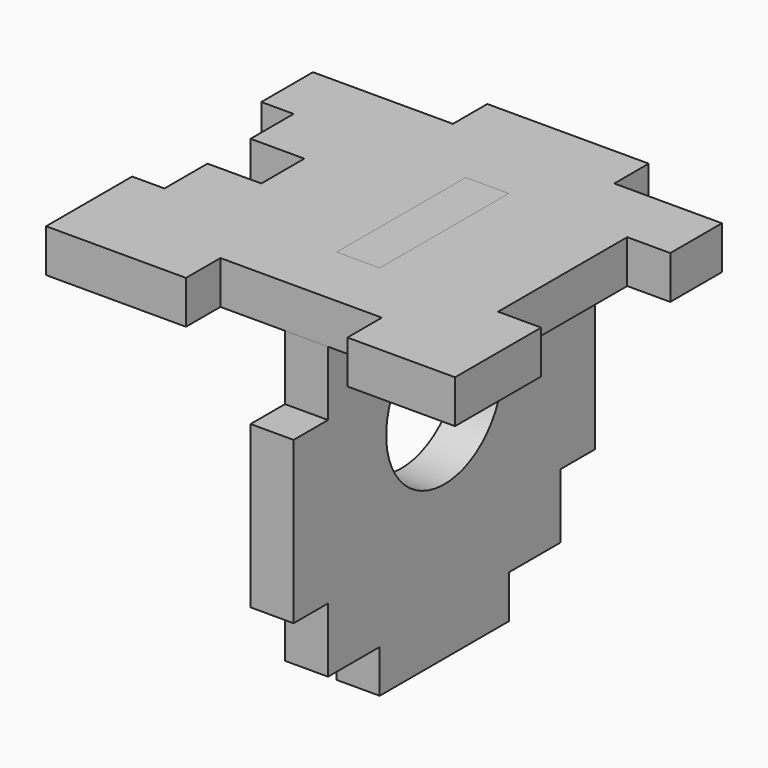
from build123d import *

# Parameters (mm, degrees)
PAD_DEPTH    = 4
SKETCH001_R  = 6.75
PAD001_DEPTH = 4


with BuildPart() as wall:
    # Sketch → Pad (new body)
    with BuildSketch(Plane.XY):
        Polygon((-19, 15.5), (-6, 15.5), (-6, 19.5), (9, 19.5), (9, 15.5), (19, 15.5), (19, 9.5), (15, 9.5), (15, -5.5), (19, -5.5), (19, -15.5), (9, -15.5), (9, -11.5), (-6, -11.5), (-6, -15.5), (-19, -15.5), (-19, -5.5), (-16, -5.5), (-16, -0.5), (-11, -0.5), (-11, 4.5), (-16, 4.5), (-16, 9.5), (-19, 9.5), align=None)
    extrude(amount=PAD_DEPTH)


with BuildPart() as cover:
    # Sketch001 → Pad001 (new body)
    with BuildSketch(Plane.YZ):
        Polygon((-5.5, 0), (-5.5, 4), (9.5, 4), (9.5, 0), (15.5, 0), (15.5, -6), (19.5, -6), (19.5, -21), (15.5, -21), (15.5, -27), (9.5, -27), (9.5, -31), (-5.5, -31), (-5.5, -27), (-11.5, -27), (-11.5, -21), (-15.5, -21), (-15.5, -6), (-11.5, -6), (-11.5, 0), align=None)
        with Locations((2, -10)):
            Circle(SKETCH001_R, mode=Mode.SUBTRACT)
    extrude(amount=PAD001_DEPTH)


solid = Compound([wall.part, cover.part])
